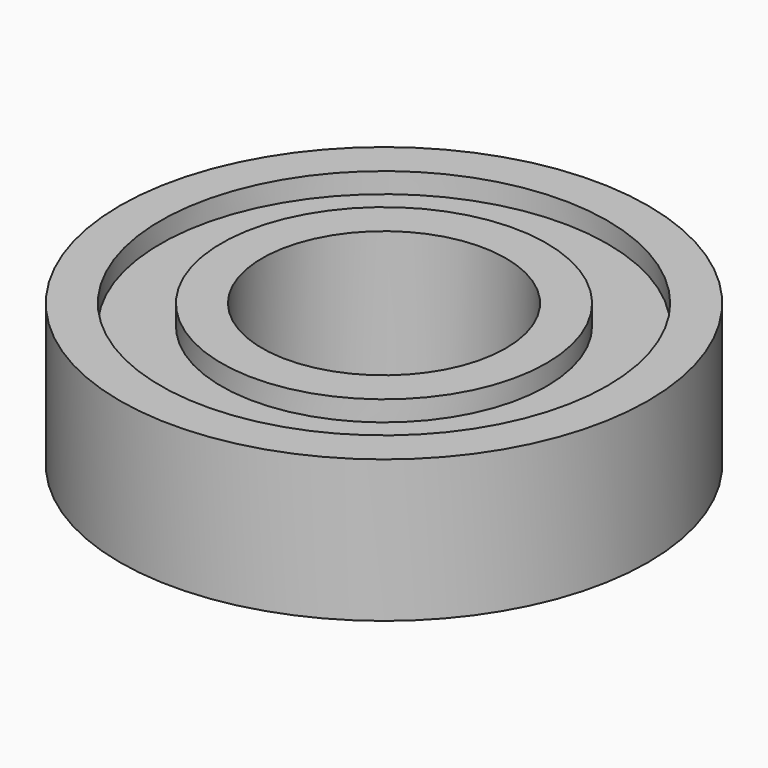
from build123d import *

# Parameters (mm, degrees)
SKETCH048_R     = 6.5
SKETCH048_R_2   = 3
PAD021_DEPTH    = 3.5
SKETCH049_R     = 5.5
SKETCH049_R_2   = 4
POCKET027_DEPTH = 0.5
SKETCH050_R     = 5.5
SKETCH050_R_2   = 4
POCKET028_DEPTH = 0.5


with BuildPart() as part:
    # Sketch048 → Pad021 (new body)
    with BuildSketch(Plane.XY):
        Circle(SKETCH048_R)
        Circle(SKETCH048_R_2, mode=Mode.SUBTRACT)
    extrude(amount=PAD021_DEPTH)

    # Sketch049 → Pocket027 (cut)
    with BuildSketch(Plane.XY.offset(3.5)):
        Circle(SKETCH049_R)
        Circle(SKETCH049_R_2, mode=Mode.SUBTRACT)
    extrude(amount=-POCKET027_DEPTH, mode=Mode.SUBTRACT)

    # Sketch050 → Pocket028 (cut)
    with BuildSketch(Plane.XY):
        Circle(SKETCH050_R)
        Circle(SKETCH050_R_2, mode=Mode.SUBTRACT)
    extrude(amount=POCKET028_DEPTH, mode=Mode.SUBTRACT)


solid = part.part
